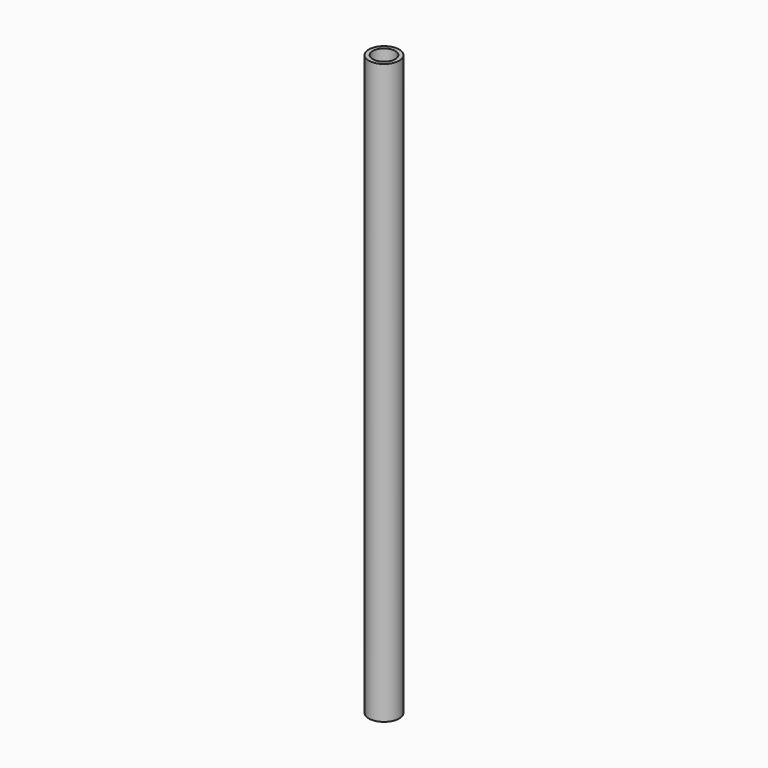
from build123d import *

# Parameters (mm, degrees)
F1_R     = 10.668
F1_R_2   = 7.874
F2_DEPTH = 406.4


with BuildPart() as f2:
    # F1 (on face) → F2 (new body)
    with BuildSketch(Plane.XY):
        with Locations((72.060592, 47.027521)):
            Circle(F1_R)
        with Locations((72.060592, 47.027521)):
            Circle(F1_R_2, mode=Mode.SUBTRACT)
    extrude(amount=-F2_DEPTH)


solid = f2.part
